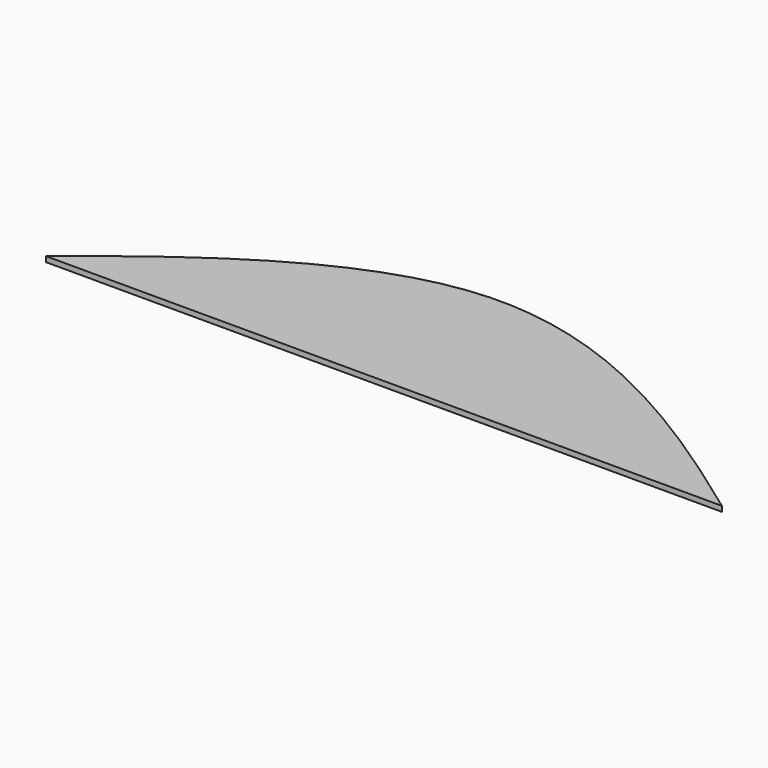
from build123d import *

# Parameters (mm, degrees)
F1_DEPTH = 100


with BuildPart() as f1:
    # F0 (on Top) → F1 (new body)
    with BuildSketch(Plane.XY):
        with BuildLine():
            add(Edge.make_bspline(
                [(6697.4166096798, 0), (4426.8772348844, 1667.8549551158), (-7.0496303264, 4455.3528720453), (-4036.6234541654, 1618.4180907645), (-6002.5833903202, 0)],
                knots=[0, 0, 0, 0, 0.5111169841, 1, 1, 1, 1], degree=3))
            Line((-6002.5833903202, 0), (6697.4166096798, 0))
        make_face()
    extrude(amount=F1_DEPTH)


solid = f1.part
